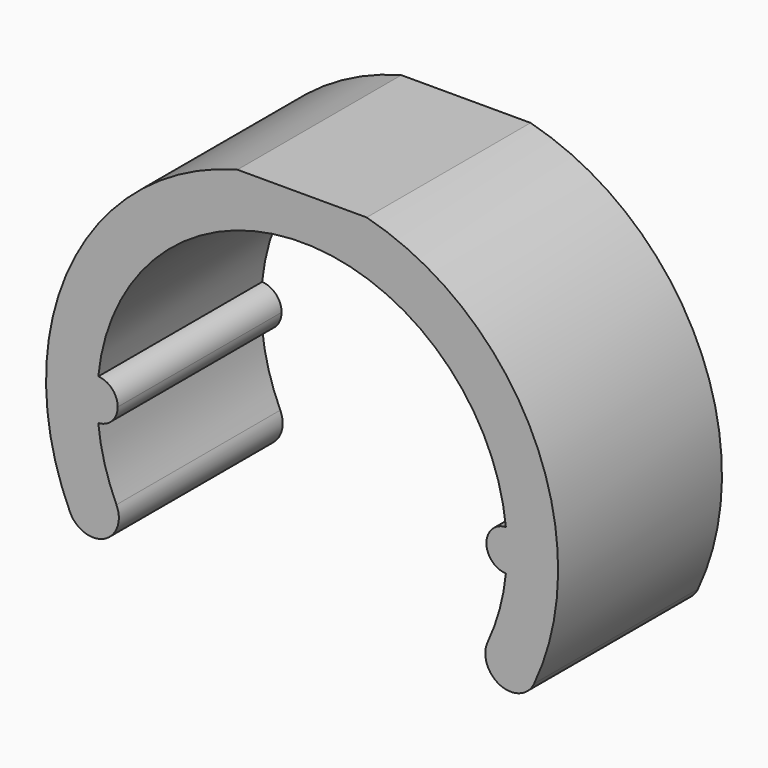
from build123d import *

# Parameters (mm, degrees)
F1_DEPTH = 10


with BuildPart() as f1:
    # F0 (on Front) → F1 (new body)
    with BuildSketch(Plane.XZ):
        with BuildLine():
            ThreePointArc((-9.95, 0.9987492178), (-10, 0), (-9.95, -0.9987492178))
            ThreePointArc((-9.95, -0.9987492178), (-9.2754311627, -0.6892024376), (-9, 0))
            ThreePointArc((-9, 0), (-9.2754311627, 0.6892024376), (-9.95, 0.9987492178))
        make_face()
        with BuildLine():
            ThreePointArc((9.95, -0.9987492178), (10, 0), (9.95, 0.9987492178))
            ThreePointArc((9.95, 0.9987492178), (9, 0), (9.95, -0.9987492178))
        make_face()
        with BuildLine():
            ThreePointArc((-9.95, 0.9987492178), (-11, 0), (-9.95, -0.9987492178))
            ThreePointArc((-9.95, -0.9987492178), (-10, 0), (-9.95, 0.9987492178))
        make_face()
        with BuildLine():
            ThreePointArc((11, 0), (10.6892024376, 0.7245688373), (9.95, 0.9987492178))
            ThreePointArc((9.95, 0.9987492178), (10, 0), (9.95, -0.9987492178))
            ThreePointArc((9.95, -0.9987492178), (10.6892024376, -0.7245688373), (11, 0))
        make_face()
        with BuildLine():
            ThreePointArc((-11.328847338, -5.2827282718), (-9.667689777, -5.8873401784), (-9.0630778704, -4.2261826174))
            ThreePointArc((-9.0630778704, -4.2261826174), (-9.6425289273, -2.6498369547), (-9.95, -0.9987492178))
            ThreePointArc((-9.95, -0.9987492178), (-11, 0), (-9.95, 0.9987492178))
            ThreePointArc((-9.95, 0.9987492178), (0, 10), (9.95, 0.9987492178))
            ThreePointArc((9.95, 0.9987492178), (10.6892024376, 0.7245688373), (11, 0))
            ThreePointArc((11, 0), (10.6892024376, -0.7245688373), (9.95, -0.9987492178))
            ThreePointArc((9.95, -0.9987492178), (9.6425289273, -2.6498369547), (9.0630778704, -4.2261826174))
            ThreePointArc((9.0630778704, -4.2261826174), (9.667689777, -5.8873401784), (11.328847338, -5.2827282718))
            ThreePointArc((11.328847338, -5.2827282718), (11.3110273164, 5.3207763577), (3.1539999452, 12.0955481209))
            Line((3.1539999452, 12.0955481209), (-3.1539999452, 12.0955481209))
            ThreePointArc((-3.1539999452, 12.0955481209), (-11.3110273164, 5.3207763577), (-11.328847338, -5.2827282718))
        make_face()
    extrude(amount=F1_DEPTH)


solid = f1.part
